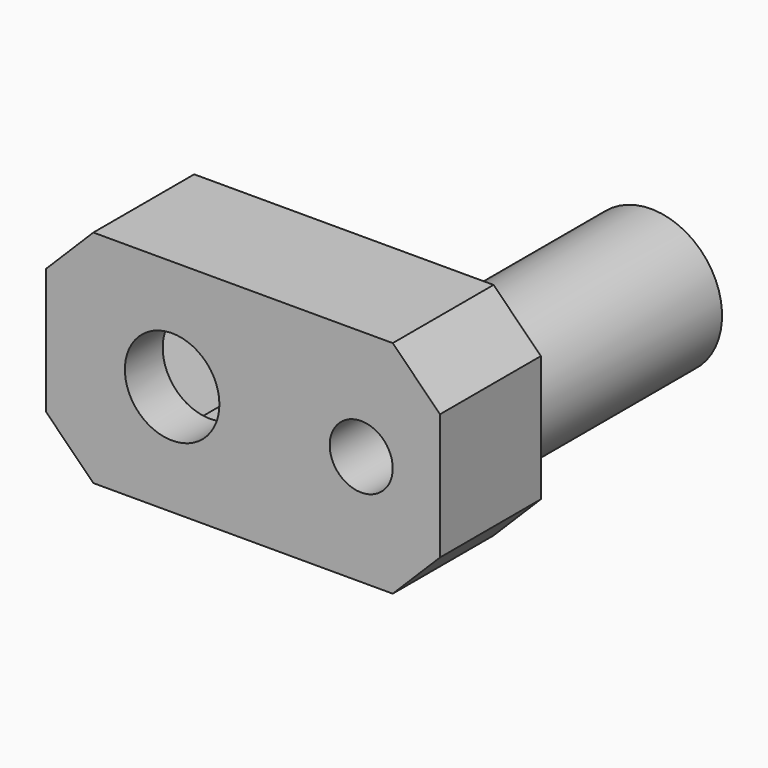
from build123d import *

# Parameters (mm, degrees)
F0_W     = 25
F0_H     = 14
F0_R     = 3
F0_R_2   = 2
F1_DEPTH = 8
F2_DEPTH = 5
F3_DEPTH = 3.2
F4_SIZE  = 3
F5_R     = 4.5
F5_R_2   = 2.2
F6_DEPTH = 15
F7_R     = 3.7
F8_DEPTH = 4


with BuildPart() as f1:
    # F0 (on Front) → F1 (new body)
    with BuildSketch(Plane.XZ):
        with Locations((4.5, 0)):
            Rectangle(F0_W, F0_H)
        Polygon((-5.8312377188, 0), (-2.9156188594, 5.05), (2.9156188594, 5.05), (5.8312377188, 0), (2.9156188594, -5.05), (-2.9156188594, -5.05), align=None, mode=Mode.SUBTRACT)
        Polygon((12, 4.0414518843), (15.5, 2.0207259422), (15.5, -2.0207259422), (12, -4.0414518843), (8.5, -2.0207259422), (8.5, 2.0207259422), align=None, mode=Mode.SUBTRACT)
        Polygon((2.9156188594, 5.05), (-2.9156188594, 5.05), (-5.8312377188, 0), (-2.9156188594, -5.05), (2.9156188594, -5.05), (5.8312377188, 0), align=None)
        Circle(F0_R, mode=Mode.SUBTRACT)
        Polygon((15.5, -2.0207259422), (15.5, 2.0207259422), (12, 4.0414518843), (8.5, 2.0207259422), (8.5, -2.0207259422), (12, -4.0414518843), align=None)
        with Locations((12, 0)):
            Circle(F0_R_2, mode=Mode.SUBTRACT)
    extrude(amount=F1_DEPTH)

    # F0 (on Front) → F2 (cut)
    with BuildSketch(Plane.XZ):
        Polygon((2.9156188594, 5.05), (-2.9156188594, 5.05), (-5.8312377188, 0), (-2.9156188594, -5.05), (2.9156188594, -5.05), (5.8312377188, 0), align=None)
        Circle(F0_R, mode=Mode.SUBTRACT)
    extrude(amount=F2_DEPTH, mode=Mode.SUBTRACT)

    # F0 (on Front) → F3 (cut)
    with BuildSketch(Plane.XZ):
        Polygon((15.5, -2.0207259422), (15.5, 2.0207259422), (12, 4.0414518843), (8.5, 2.0207259422), (8.5, -2.0207259422), (12, -4.0414518843), align=None)
        with Locations((12, 0)):
            Circle(F0_R_2, mode=Mode.SUBTRACT)
    extrude(amount=F3_DEPTH, mode=Mode.SUBTRACT)

    # F4
    f4_edges = [f1.edges().sort_by_distance(p)[0] for p in [
        (-8, -4, -7),
        (17, -4, -7),
        (-8, -4, 7),
        (17, -4, 7),
    ]]
    chamfer(f4_edges, length=F4_SIZE)


with BuildPart() as f6:
    # F5 (on face) → F6 (new body)
    with BuildSketch(Plane(origin=(0, 0, 0), x_dir=(-1, 0, 0), z_dir=(0, 1, 0))):
        with Locations((-12, 0)):
            Circle(F5_R)
        with Locations((-12, 0)):
            Circle(F5_R_2, mode=Mode.SUBTRACT)
    extrude(amount=F6_DEPTH)

    # F7 (on face) → F8 (cut)
    with BuildSketch(Plane(origin=(0, 15, 0), x_dir=(-1, 0, 0), z_dir=(0, 1, 0))):
        with Locations((-12, 0)):
            Circle(F7_R)
    extrude(amount=-F8_DEPTH, mode=Mode.SUBTRACT)


solid = Compound([f1.part, f6.part])
